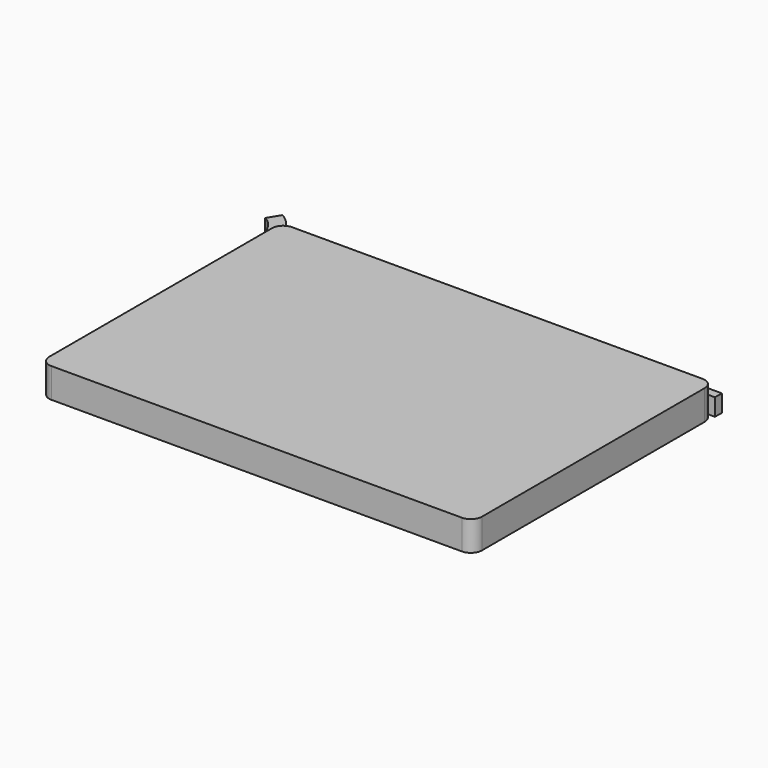
from build123d import *

# Parameters (mm, degrees)
F0_W     = 100.5
F0_H     = 69.85
F1_DEPTH = 6.9
F2_R     = 2.6
F4_DEPTH = 4


with BuildPart() as f1:
    # F0 (on Top) → F1 (new body)
    with BuildSketch(Plane.XY):
        Rectangle(F0_W, F0_H)
    extrude(amount=F1_DEPTH)

    # F2
    f2_edges = [f1.edges().sort_by_distance(p)[0] for p in [
        (50.25, 34.925, 3.45),
        (-50.25, 34.925, 3.45),
        (50.25, -34.925, 3.45),
        (-50.25, -34.925, 3.45),
    ]]
    fillet(f2_edges, radius=F2_R)


with BuildPart() as f4:
    # F3 (on Top) → F4 (new body)
    with BuildSketch(Plane.XY):
        with BuildLine():
            Line((-51.996715, 30.484922), (-51.432752, 30.484922))
            ThreePointArc((-51.432752, 30.484922), (-50.726335, 30.777126), (-50.432754, 31.482971))
            Line((-50.432754, 31.482971), (-50.4308, 32.484696))
            ThreePointArc((-50.4308, 32.484696), (-49.666903, 34.320477), (-47.829152, 35.079623))
            Line((-47.829152, 35.079623), (50.463868, 35.017145))
            Line((50.463868, 35.017145), (50.48959, 37.017129))
            Line((50.48959, 37.017129), (-47.989413, 37.079725))
            add(Edge.make_bspline(
                [(-51.218937, 36.40709), (-50.241545, 36.901925), (-49.550101, 37.079725), (-47.989413, 37.079725)],
                knots=[0, 0, 0, 0, 3.298828, 3.298828, 3.298828, 3.298828], degree=3))
            add(Edge.make_bspline(
                [(-55.447294, 41.885467), (-53.165365, 40.635724), (-51.663946, 38.508711), (-51.218937, 36.40709)],
                knots=[0, 0, 0, 0, 6.920377, 6.920377, 6.920377, 6.920377], degree=3))
            Line((-55.447294, 41.885467), (-57.206698, 39.039075))
            add(Edge.make_bspline(
                [(-52.991679, 31.384692), (-53.270413, 34.151609), (-54.545485, 37.885883), (-57.206698, 39.039075)],
                knots=[0.974831, 0.974831, 0.974831, 0.974831, 9.561563, 9.561563, 9.561563, 9.561563], degree=3))
            ThreePointArc((-52.991679, 31.384692), (-52.66745, 30.743225), (-51.996715, 30.484922))
        make_face()
    extrude(amount=F4_DEPTH)


solid = Compound([f1.part, f4.part])
